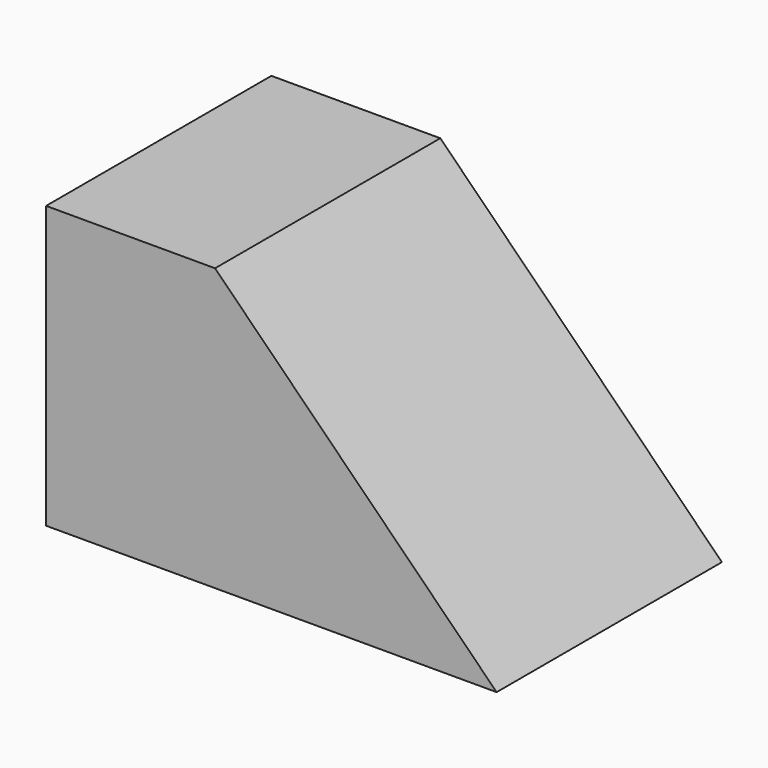
from build123d import *

# Parameters (mm, degrees)
F0_W     = 50.8
F0_H     = 31.75
F1_DEPTH = 31.75
F3_DEPTH = 31.75
F4_W     = 22.45064
F4_H     = 31.75
F5_DEPTH = 17.018


with BuildPart() as f1:
    # F0 (on Front) → F1 (new body)
    with BuildSketch(Plane.XZ):
        with Locations((25.4, 15.875)):
            Rectangle(F0_W, F0_H)
    extrude(amount=F1_DEPTH)

    # F2 (on face) → F3 (cut)
    with BuildSketch(Plane.XZ.offset(31.75)):
        Polygon((50.8, 31.75), (19.05, 31.75), (50.8, 0), align=None)
    extrude(amount=-F3_DEPTH, mode=Mode.SUBTRACT)

    # F4 (on face) → F5 (cut)
    with BuildSketch(Plane(origin=(25.4, 0, 25.4), x_dir=(0.707107, 0, -0.707107), z_dir=(0.707107, 0, 0.707107))):
        with Locations((24.695704, -15.875)):
            Rectangle(F4_W, F4_H)
    extrude(amount=F5_DEPTH, mode=Mode.SUBTRACT)


solid = f1.part
